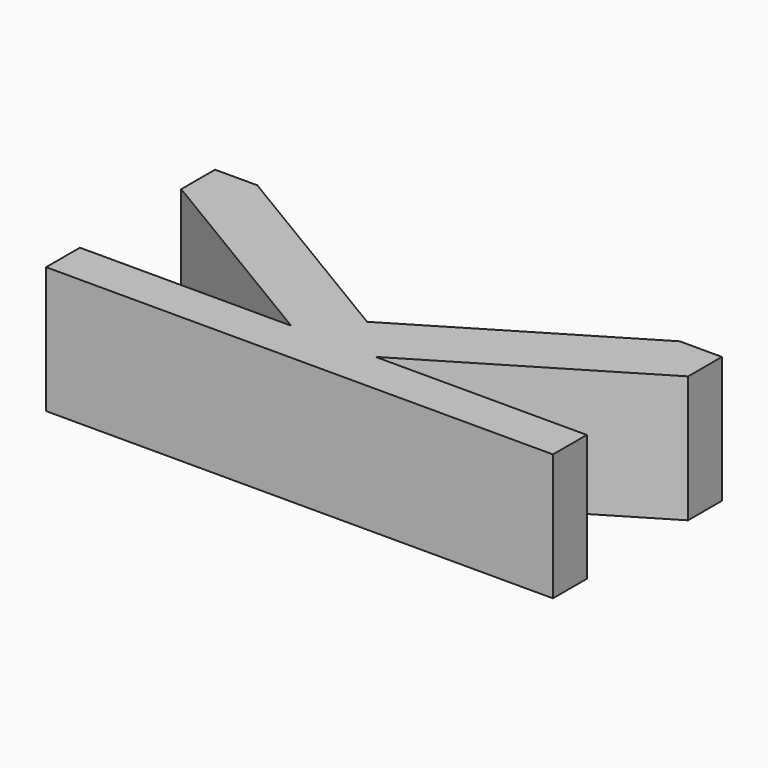
from build123d import *

# Parameters (mm, degrees)
F1_DEPTH = 15


with BuildPart() as f1:
    # F0 (on Top) → F1 (new body)
    with BuildSketch(Plane.XY):
        Polygon((-5, 0), (0, 0), (0, 5), (-25, 20), (-30, 20), (-30, 15), align=None)
        Polygon((0, 5), (0, 0), (5, 0), (30, 15), (30, 20), (25, 20), align=None)
        Polygon((5, 0), (0, 0), (-5, 0), (-30, 0), (-30, -5), (30, -5), (30, 0), align=None)
    extrude(amount=F1_DEPTH)


solid = f1.part
